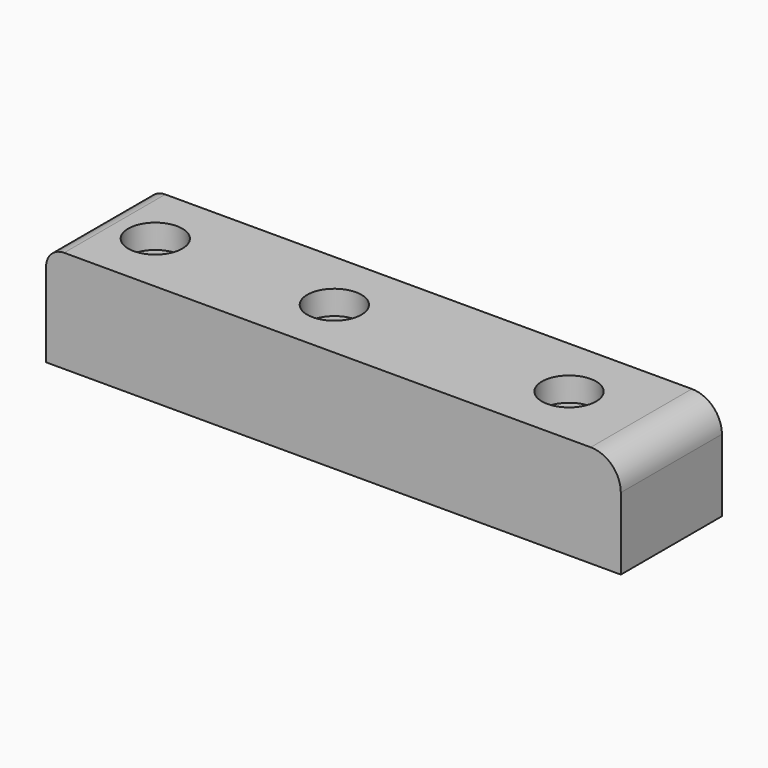
from build123d import *

# Parameters (mm, degrees)
F1_DEPTH = 21
F2_R     = 5
F3_R     = 2
F4_DEPTH = 25
F5_R     = 4.5
F6_DEPTH = 4
F7_R     = 3


with BuildPart() as f1:
    # F0 (on Front) → F1 (new body)
    with BuildSketch(Plane.XZ):
        Polygon((95.5, 17), (6.891753, 17), (0, 17), (0, 0), (95.5, 0), align=None)
    extrude(amount=F1_DEPTH)

    # F2
    f2_edges = [f1.edges().sort_by_distance(p)[0] for p in [
        (95.5, -10.5, 17),
    ]]
    fillet(f2_edges, radius=F2_R)

    # F3 (on face) → F4 (cut)
    with BuildSketch(Plane.XY.offset(17)):
        with BuildLine():
            ThreePointArc((41.5, -10.5), (39.5, -8.5), (37.5, -10.5))
            ThreePointArc((37.5, -10.5), (39.5, -12.5), (41.5, -10.5))
        make_face()
        with BuildLine():
            ThreePointArc((7.75, -10.5), (9.75, -12.5), (11.75, -10.5))
            Line((11.75, -10.5), (7.75, -10.5))
        make_face()
        with BuildLine():
            Line((7.75, -10.5), (11.75, -10.5))
            ThreePointArc((11.75, -10.5), (9.75, -8.5), (7.75, -10.5))
        make_face()
        with Locations((78.5, -10.5)):
            Circle(F3_R)
    extrude(amount=-F4_DEPTH, mode=Mode.SUBTRACT)

    # F5 (on face) → F6 (cut)
    with BuildSketch(Plane.XY.offset(17)):
        with Locations((9.75, -10.5)):
            Circle(F5_R)
        with Locations((39.5, -10.5)):
            Circle(F5_R)
        with Locations((78.5, -10.5)):
            Circle(F5_R)
    extrude(amount=-F6_DEPTH, mode=Mode.SUBTRACT)

    # F7
    f7_edges = [f1.edges().sort_by_distance(p)[0] for p in [
        (0, -10.5, 17),
    ]]
    fillet(f7_edges, radius=F7_R)


solid = f1.part
